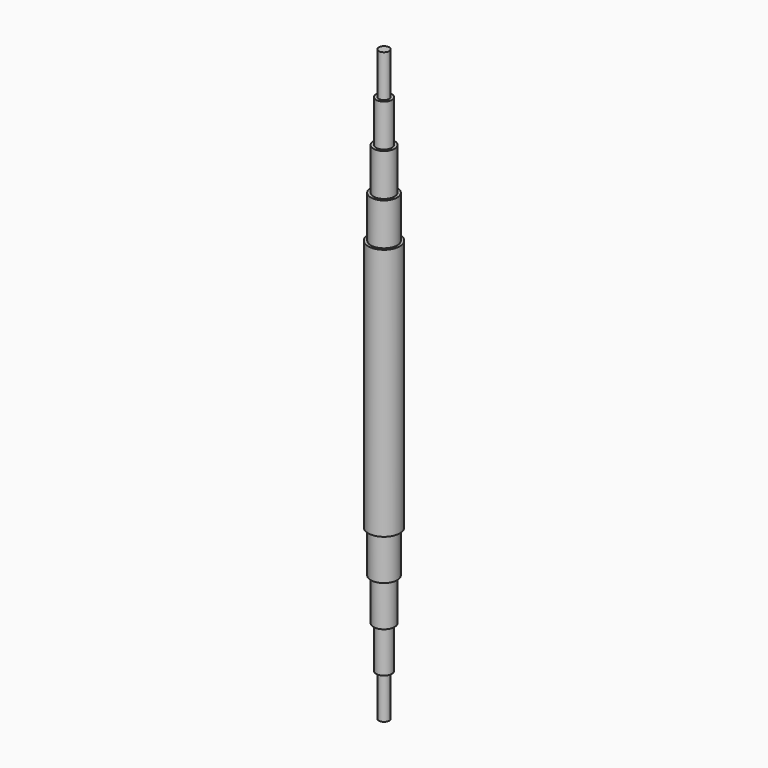
from build123d import *

# Parameters (mm, degrees)
F0_W = 0.79375
F0_H = 6.35


with BuildPart() as f1:
    # F0 (on Front) → F1 (revolve)
    with BuildSketch(Plane.XZ):
        Polygon((1.984375, 19.05), (0, 19.05), (0, 0), (2.38125, 0), (2.38125, 19.05), align=None)
        Polygon((0, 25.4), (0, 19.05), (1.984375, 19.05), (1.984375, 25.4), (1.5875, 25.4), align=None)
        Polygon((0, 31.75), (0, 25.4), (1.5875, 25.4), (1.5875, 31.75), (1.190625, 31.75), align=None)
        Polygon((0, 38.1), (0, 31.75), (1.190625, 31.75), (1.190625, 38.1), (0.79375, 38.1), align=None)
        with Locations((0.396875, 41.275)):
            Rectangle(F0_W, F0_H)
    revolve(axis=Axis((0, 0, 9.525), (0, 0, 1)))

    # F2: F1 across plane


with BuildPart() as f1_1:
    add(f1.part)
    add(f1.part.mirror(Plane.XY))


solid = f1_1.part
